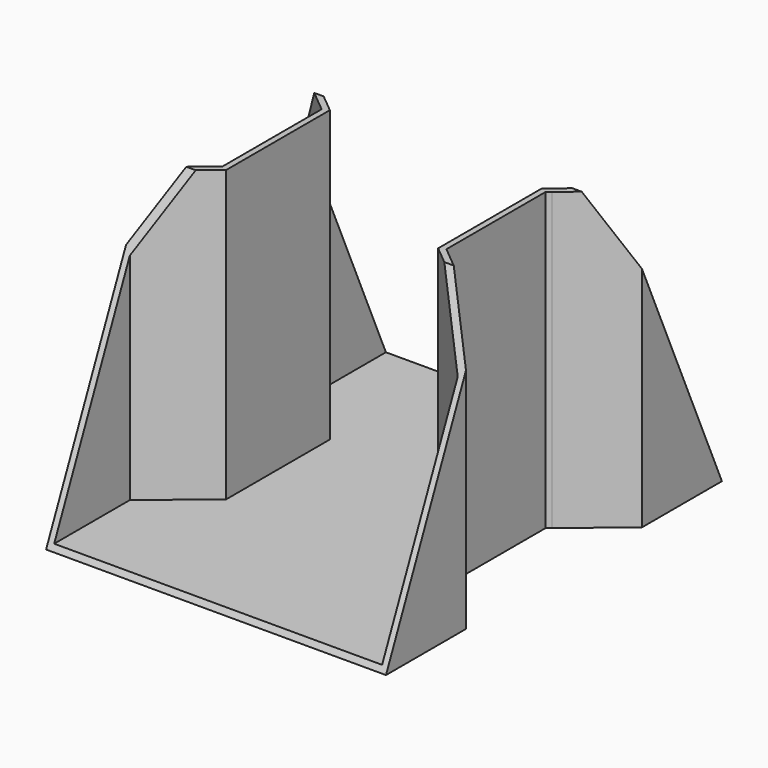
from build123d import *

# Parameters (mm, degrees)
F1_DEPTH = 74
F3_DEPTH = 50
F4_T     = -1.5


with BuildPart() as f1:
    # F0 (on Top) → F1 (new body)
    with BuildSketch(Plane.XY):
        Polygon((42.5, 27.5), (42.5, 52.5), (-42.5, 52.5), (-42.5, 27.5), (-28, 15.5), (-28, -15.5), (-42.5, -27.5), (-42.5, -52.5), (42.5, -52.5), (42.5, -27.5), (28, -15.5), (28, 15.5), (29, 16.3275862069), align=None)
        with BuildLine():
            Line((-34.6619805153, -37.7418373828), (-29.712233047, -32.7920899145))
            ThreePointArc((-29.712233047, -32.7920899145), (-23.3482720164, -32.7920899145), (-23.3482720164, -39.1560509451))
            Line((-23.3482720164, -39.1560509451), (-28.2980194847, -44.1057984134))
            ThreePointArc((-28.2980194847, -44.1057984134), (-34.6619805153, -44.1057984134), (-34.6619805153, -37.7418373828))
        make_face(mode=Mode.SUBTRACT)
        with BuildLine():
            ThreePointArc((34.6619805153, -37.7418373828), (34.6619805153, -44.1057984134), (28.2980194847, -44.1057984134))
            Line((28.2980194847, -44.1057984134), (23.3482720164, -39.1560509451))
            ThreePointArc((23.3482720164, -39.1560509451), (23.3482720164, -32.7920899145), (29.712233047, -32.7920899145))
            Line((29.712233047, -32.7920899145), (34.6619805153, -37.7418373828))
        make_face(mode=Mode.SUBTRACT)
        with BuildLine():
            ThreePointArc((-34.6619805153, 37.7418373828), (-34.6619805153, 44.1057984134), (-28.2980194847, 44.1057984134))
            Line((-28.2980194847, 44.1057984134), (-23.3482720164, 39.1560509451))
            ThreePointArc((-23.3482720164, 39.1560509451), (-23.3482720164, 32.7920899145), (-29.712233047, 32.7920899145))
            Line((-29.712233047, 32.7920899145), (-34.6619805153, 37.7418373828))
        make_face(mode=Mode.SUBTRACT)
        with BuildLine():
            ThreePointArc((29.712233047, 32.7920899145), (29.3709433721, 32.4840166266), (29, 32.2123756731))
            ThreePointArc((29, 32.2123756731), (23.3244813451, 32.8160598061), (22.8060506298, 38.5))
            ThreePointArc((22.8060506298, 38.5), (23.0616159687, 38.8408735961), (23.3482720164, 39.1560509451))
            Line((23.3482720164, 39.1560509451), (28.2980194847, 44.1057984134))
            ThreePointArc((28.2980194847, 44.1057984134), (28.6345514487, 44.4099938176), (29, 44.6787613065))
            ThreePointArc((29, 44.6787613065), (34.6382034894, 44.1293990809), (35.2714518059, 38.5))
            ThreePointArc((35.2714518059, 38.5), (34.9872627822, 38.1044016861), (34.6619805153, 37.7418373828))
            Line((34.6619805153, 37.7418373828), (29.712233047, 32.7920899145))
        make_face(mode=Mode.SUBTRACT)
        with BuildLine():
            Line((23.3482720164, -39.1560509451), (28.2980194847, -44.1057984134))
            ThreePointArc((28.2980194847, -44.1057984134), (34.6619805153, -44.1057984134), (34.6619805153, -37.7418373828))
            Line((34.6619805153, -37.7418373828), (29.712233047, -32.7920899145))
            ThreePointArc((29.712233047, -32.7920899145), (23.3482720164, -32.7920899145), (23.3482720164, -39.1560509451))
        make_face()
        with BuildLine():
            Line((-23.3482720164, 39.1560509451), (-28.2980194847, 44.1057984134))
            ThreePointArc((-28.2980194847, 44.1057984134), (-34.6619805153, 44.1057984134), (-34.6619805153, 37.7418373828))
            Line((-34.6619805153, 37.7418373828), (-29.712233047, 32.7920899145))
            ThreePointArc((-29.712233047, 32.7920899145), (-23.3482720164, 32.7920899145), (-23.3482720164, 39.1560509451))
        make_face()
        with BuildLine():
            ThreePointArc((-23.3482720164, -39.1560509451), (-23.3482720164, -32.7920899145), (-29.712233047, -32.7920899145))
            Line((-29.712233047, -32.7920899145), (-34.6619805153, -37.7418373828))
            ThreePointArc((-34.6619805153, -37.7418373828), (-34.6619805153, -44.1057984134), (-28.2980194847, -44.1057984134))
            Line((-28.2980194847, -44.1057984134), (-23.3482720164, -39.1560509451))
        make_face()
        with BuildLine():
            Line((29, 38.4438178981), (29, 32.2123756731))
            ThreePointArc((29, 32.2123756731), (29.3709433721, 32.4840166266), (29.712233047, 32.7920899145))
            Line((29.712233047, 32.7920899145), (34.6619805153, 37.7418373828))
            ThreePointArc((34.6619805153, 37.7418373828), (34.9872627822, 38.1044016861), (35.2714518059, 38.5))
            Line((35.2714518059, 38.5), (29.0561821019, 38.5))
            Line((29.0561821019, 38.5), (29, 38.4438178981))
        make_face()
        with BuildLine():
            ThreePointArc((22.8060506298, 38.5), (23.3244813451, 32.8160598061), (29, 32.2123756731))
            Line((29, 32.2123756731), (29, 38.4438178981))
            Line((29, 38.4438178981), (29, 38.5))
            Line((29, 38.5), (22.8060506298, 38.5))
        make_face()
        with BuildLine():
            Line((29, 38.5), (29.0561821019, 38.5))
            Line((29.0561821019, 38.5), (35.2714518059, 38.5))
            ThreePointArc((35.2714518059, 38.5), (34.6382034894, 44.1293990809), (29, 44.6787613065))
            Line((29, 44.6787613065), (29, 38.5))
        make_face()
        with BuildLine():
            ThreePointArc((23.3482720164, 39.1560509451), (23.0616159687, 38.8408735961), (22.8060506298, 38.5))
            Line((22.8060506298, 38.5), (29, 38.5))
            Line((29, 38.5), (29, 44.6787613065))
            ThreePointArc((29, 44.6787613065), (28.6345514487, 44.4099938176), (28.2980194847, 44.1057984134))
            Line((28.2980194847, 44.1057984134), (23.3482720164, 39.1560509451))
        make_face()
    extrude(amount=-F1_DEPTH)

    # F2 (on Right) → F3 (cut, symmetric)
    with BuildSketch(Plane.YZ):
        Polygon((-52.5, 0), (-52.5, -74), (-20, 0), align=None)
        Polygon((52.8937540948, 0), (20, 0), (52.5, -74), align=None)
    extrude(amount=F3_DEPTH, both=True, mode=Mode.SUBTRACT)

    # F4
    f4_openings = [f1.faces().sort_by_distance(p)[0] for p in [
        (0, 0, 0),
        (0, -36.59684, -37.789727),
        (-1.7e-05, 36.596839, -37.789725),
    ]]
    offset(amount=F4_T, openings=f4_openings, kind=Kind.INTERSECTION)


solid = f1.part
